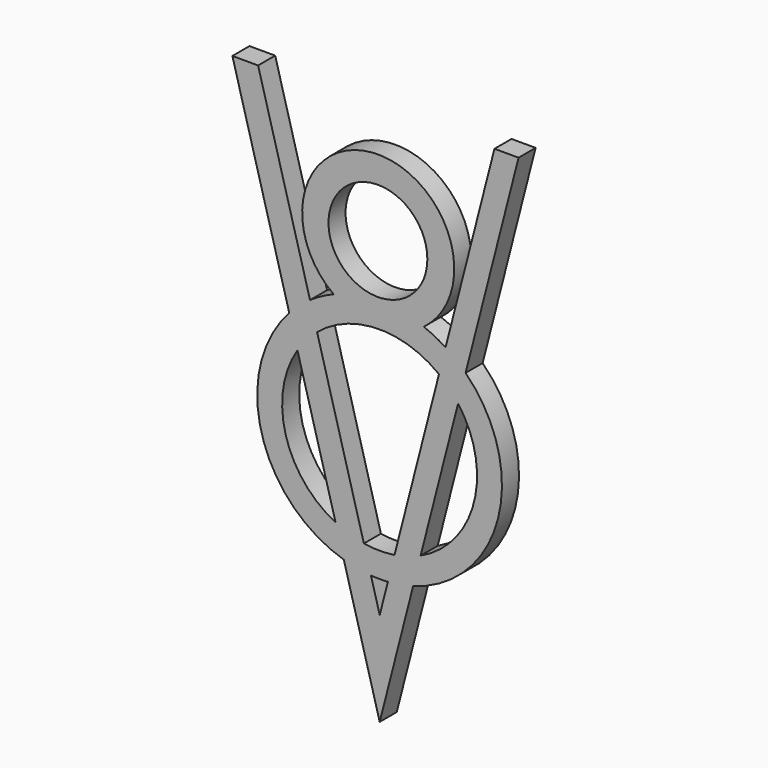
from build123d import *

# Parameters (mm, degrees)
F0_R     = 10.298012
F1_DEPTH = 4.445


with BuildPart() as f1:
    # F0 (on Front) → F1 (new body)
    with BuildSketch(Plane.XZ):
        with BuildLine():
            Line((-7.473974, -42.73476), (0, -70.048116))
            Line((0, -70.048116), (6.963216, -42.873585))
            ThreePointArc((6.963216, -42.873585), (24.672634, -24.685474), (17.892258, -0.222085))
            ThreePointArc((17.892258, -0.222085), (15.896074, 1.552794), (13.725117, 3.10904))
            ThreePointArc((13.725117, 3.10904), (11.511547, 4.374938), (9.182577, 5.413344))
            ThreePointArc((9.182577, 5.413344), (-0.436797, 33.934239), (-9.600667, 5.263743))
            ThreePointArc((-9.600667, 5.263743), (-12.133214, 4.070729), (-14.519666, 2.607196))
            Line((-14.519666, 2.607196), (-25.331564, 42.11887))
            Line((-25.331564, 42.11887), (-30.693157, 42.11887))
            Line((-30.693157, 42.11887), (-18.846908, -1.172802))
            ThreePointArc((-18.846908, -1.172802), (-24.607138, -25.086033), (-7.473974, -42.73476))
        make_face()
        with BuildLine():
            ThreePointArc((-9.186635, -36.475906), (-19.604875, -23.717223), (-17.134247, -7.431656))
            Line((-17.134247, -7.431656), (-9.186635, -36.475906))
        make_face(mode=Mode.SUBTRACT)
        with BuildLine():
            Line((1.707625, -43.790225), (0, -50.454375))
            Line((0, -50.454375), (-1.825024, -43.784892))
            ThreePointArc((-1.825024, -43.784892), (-0.058792, -43.848829), (1.707625, -43.790225))
        make_face(mode=Mode.SUBTRACT)
        with BuildLine():
            Line((-3.299593, -38.396135), (-13.045097, -2.781561))
            ThreePointArc((-13.045097, -2.781561), (-0.439642, 1.942082), (12.350124, -2.256984))
            Line((12.350124, -2.256984), (3.082618, -38.424201))
            ThreePointArc((3.082618, -38.424201), (-0.109597, -38.662499), (-3.299593, -38.396135))
        make_face(mode=Mode.SUBTRACT)
        with BuildLine():
            Line((8.525477, -36.77673), (16.329997, -6.31894))
            ThreePointArc((16.329997, -6.31894), (19.64878, -23.398159), (8.525477, -36.77673))
        make_face(mode=Mode.SUBTRACT)
        with Locations((-0.371254, 18.052725)):
            Circle(F0_R, mode=Mode.SUBTRACT)
        with BuildLine():
            ThreePointArc((13.725117, 3.10904), (15.896074, 1.552794), (17.892258, -0.222085))
            Line((17.892258, -0.222085), (28.928334, 42.847119))
            Line((28.928334, 42.847119), (23.907623, 42.847119))
            Line((23.907623, 42.847119), (13.725117, 3.10904))
        make_face()
    extrude(amount=F1_DEPTH)


solid = f1.part
